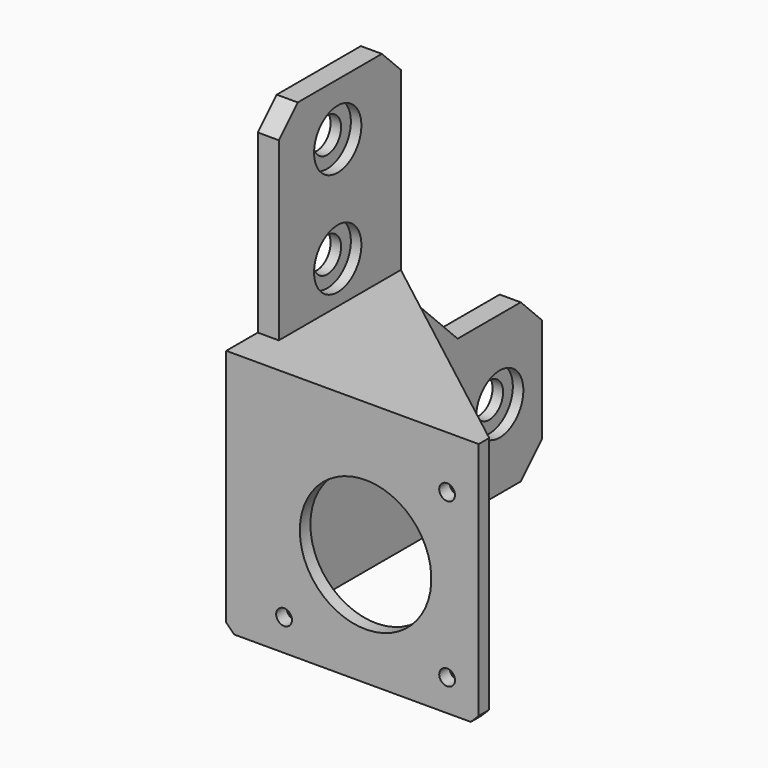
from build123d import *

# Parameters (mm, degrees)
F1_W           = 48
F1_H           = 47
F2_DEPTH       = 2.5
F4_DEPTH       = 4
F6_DEPTH       = 3
F8_D           = 6.6
F8_CBORE_D     = 11.25
F8_CBORE_DEPTH = 2
F9_R           = 1.5
F9_R_2         = 12.5
F10_DEPTH      = 2.501
F11_SIZE       = 1.5


with BuildPart() as f2:
    # F1 (on Front) → F2 (new body)
    with BuildSketch(Plane.XZ):
        with Locations((19, 23.5)):
            Rectangle(F1_W, F1_H)
    extrude(amount=F2_DEPTH)

    # F3 (on face) → F4 (join)
    with BuildSketch(Plane(origin=(-5, 0, 0), x_dir=(0, -1, 0), z_dir=(-1, 0, 0))):
        Polygon((-62.5, 0), (0, 0), (0, 47), (-5, 47), (-5, 80.5), (-9.5, 85), (-29.5, 85), (-34, 80.5), (-34, 43.5), (-47.5, 30), (-62.5, 30), (-67.5, 25), (-67.5, 5), align=None)
    extrude(amount=-F4_DEPTH)

    # F5 (on face) → F6 (join)
    with BuildSketch(Plane.XY.offset(47)):
        Polygon((-1, 5), (-1, 0), (43, 0), (-1, 34), align=None)
    extrude(amount=-F6_DEPTH)

    # F8 (through all)
    with Locations(Plane.YZ.offset(-1)):
        with Locations((19, 75), (19, 55), (57.5, 15)):
            CounterBoreHole(F8_D / 2, F8_CBORE_D / 2, F8_CBORE_DEPTH)

    # F9 (on face) → F10 (cut, through all)
    with BuildSketch(Plane(origin=(0, 0, 0), x_dir=(-1, 0, 0), z_dir=(0, 1, 0))):
        with Locations((-37, 37)):
            Circle(F9_R)
        with Locations((-37, 6)):
            Circle(F9_R)
        with Locations((-6, 6)):
            Circle(F9_R)
        with Locations((-21.5, 21.5)):
            Circle(F9_R_2)
    extrude(amount=-F10_DEPTH, mode=Mode.SUBTRACT)

    # F11
    f11_edges = [f2.edges().sort_by_distance(p)[0] for p in [
        (43, -1.25, 0),
        (-5, 30, 0),
    ]]
    chamfer(f11_edges, length=F11_SIZE)


solid = f2.part
